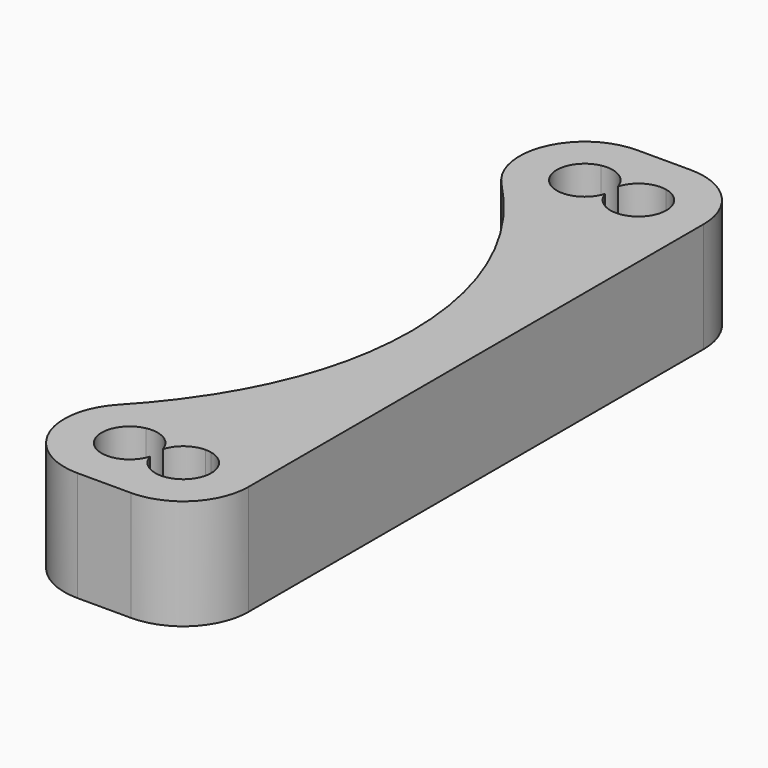
from build123d import *

# Parameters (mm, degrees)
F1_DEPTH = 23.6


with BuildPart() as f1:
    # F0 (on Top) → F1 (new body)
    with BuildSketch(Plane.XY):
        with BuildLine():
            ThreePointArc((-33.1300476876, 66.8774403692), (-29.6868850055, 64.7921543722), (-28.3365694268, 61))
            ThreePointArc((-28.3365694268, 61), (-29.6868850055, 57.2078456278), (-33.1300476876, 55.1225596308))
            ThreePointArc((-33.1300476876, 55.1225596308), (-33.6875488508, 54.042895786), (-34.3365694268, 53.0156402887))
            Line((-34.3365694268, 53.0156402887), (-34.3365694268, 47))
            ThreePointArc((-34.3365694268, 47), (-24.4370744902, 51.1005050634), (-20.3365694268, 61))
            ThreePointArc((-20.3365694268, 61), (-24.4370744902, 70.8994949366), (-34.3365694268, 75))
            ThreePointArc((-34.3365694268, 75), (-37.2771676859, 74.6876908892), (-40.0865694268, 73.7646974112))
            ThreePointArc((-40.0865694268, 73.7646974112), (-35.9867280033, 70.9489006394), (-33.1300476876, 66.8774403692))
        make_face()
        with BuildLine():
            ThreePointArc((-45.8365694268, 75), (-42.8959711677, 74.6876908892), (-40.0865694268, 73.7646974112))
            ThreePointArc((-40.0865694268, 73.7646974112), (-37.2771676859, 74.6876908892), (-34.3365694268, 75))
            Line((-34.3365694268, 75), (-45.8365694268, 75))
        make_face()
        with BuildLine():
            ThreePointArc((-47.0430911659, 66.8774403692), (-44.1864108503, 70.9489006394), (-40.0865694268, 73.7646974112))
            ThreePointArc((-40.0865694268, 73.7646974112), (-42.8959711677, 74.6876908892), (-45.8365694268, 75))
            ThreePointArc((-45.8365694268, 75), (-58.7268044704, 66.4627685766), (-55.8960509898, 51.2631200745))
            ThreePointArc((-55.8960509898, 51.2631200745), (-48.4699754944, 47.2499028191), (-40.0865694268, 48.2353025888))
            ThreePointArc((-40.0865694268, 48.2353025888), (-44.1864108503, 51.0510993606), (-47.0430911659, 55.1225596308))
            ThreePointArc((-47.0430911659, 55.1225596308), (-51.8365694268, 61), (-47.0430911659, 66.8774403692))
        make_face()
        with BuildLine():
            ThreePointArc((-20.3365694268, 61), (-24.4370744902, 51.1005050634), (-34.3365694268, 47))
            Line((-34.3365694268, 47), (-34.3365694268, 0.4321282686))
            add(Edge.make_bspline(
                [(-34.3365694268, 0.4321282686), (-34.3361365089, 0.2880770506), (-34.3361368633, 0.1440338578), (-34.3365694268, 0)],
                knots=[0.496094715, 0.496094715, 0.496094715, 0.496094715, 0.4996371995, 0.4996371995, 0.4996371995, 0.4996371995], degree=3))
            Line((-34.3365694268, 0), (-34.3365694268, -47))
            ThreePointArc((-34.3365694268, -47), (-24.4370744902, -51.1005050634), (-20.3365694268, -61))
            Line((-20.3365694268, -61), (-20.3365694268, 61))
        make_face()
        with BuildLine():
            Line((-34.3365694268, 0.4321282686), (-34.3365694268, 47))
            ThreePointArc((-34.3365694268, 47), (-37.2771676859, 47.3123091108), (-40.0865694268, 48.2353025888))
            ThreePointArc((-40.0865694268, 48.2353025888), (-48.4699754944, 47.2499028191), (-55.8960509898, 51.2631200745))
            add(Edge.make_bspline(
                [(-55.8960509898, 51.2631200745), (-40.9271633104, 35.7982841304), (-34.3895319866, 18.0551513004), (-34.3365694268, 0.4321282686)],
                knots=[0.0627121484, 0.0627121484, 0.0627121484, 0.0627121484, 0.496094715, 0.496094715, 0.496094715, 0.496094715], degree=3))
        make_face()
        with BuildLine():
            add(Edge.make_bspline(
                [(-34.3365694268, 0.4321282686), (-34.3361365089, 0.2880770506), (-34.3361368633, 0.1440338578), (-34.3365694268, 0)],
                knots=[0.496094715, 0.496094715, 0.496094715, 0.496094715, 0.4996371995, 0.4996371995, 0.4996371995, 0.4996371995], degree=3))
            Line((-34.3365694268, 0.4321282686), (-34.3365694268, 0))
        make_face()
        with BuildLine():
            ThreePointArc((-34.3365694268, -75), (-24.4370744902, -70.8994949366), (-20.3365694268, -61))
            ThreePointArc((-20.3365694268, -61), (-24.4370744902, -51.1005050634), (-34.3365694268, -47))
            Line((-34.3365694268, -47), (-34.3365694268, -53.0156402887))
            ThreePointArc((-34.3365694268, -53.0156402887), (-33.6875488508, -54.042895786), (-33.1300476876, -55.1225596308))
            ThreePointArc((-33.1300476876, -55.1225596308), (-29.6868850055, -57.2078456278), (-28.3365694268, -61))
            ThreePointArc((-28.3365694268, -61), (-29.6868850055, -64.7921543722), (-33.1300476876, -66.8774403692))
            ThreePointArc((-33.1300476876, -66.8774403692), (-35.9867280033, -70.9489006394), (-40.0865694268, -73.7646974112))
            ThreePointArc((-40.0865694268, -73.7646974112), (-37.2771676859, -74.6876908892), (-34.3365694268, -75))
        make_face()
        with BuildLine():
            Line((-34.3365694268, -47), (-34.3365694268, 0))
            add(Edge.make_bspline(
                [(-34.3365694268, 0), (-34.3900880153, -17.8204800119), (-41.0597288004, -35.4980627256), (-56.0312077554, -51.4047225497)],
                knots=[0.4996371995, 0.4996371995, 0.4996371995, 0.4996371995, 0.9379284167, 0.9379284167, 0.9379284167, 0.9379284167], degree=3))
            ThreePointArc((-56.0312077554, -51.4047225497), (-48.5660397399, -47.2686493086), (-40.0865694268, -48.2353025888))
            ThreePointArc((-40.0865694268, -48.2353025888), (-37.2771676859, -47.3123091108), (-34.3365694268, -47))
        make_face()
        with BuildLine():
            Line((-45.8365694268, -75), (-34.3365694268, -75))
            ThreePointArc((-34.3365694268, -75), (-37.2771676859, -74.6876908892), (-40.0865694268, -73.7646974112))
            ThreePointArc((-40.0865694268, -73.7646974112), (-42.8959711677, -74.6876908892), (-45.8365694268, -75))
        make_face()
        with BuildLine():
            ThreePointArc((-40.0865694268, -48.2353025888), (-48.5660397399, -47.2686493086), (-56.0312077554, -51.4047225497))
            ThreePointArc((-56.0312077554, -51.4047225497), (-58.6882985771, -66.5527522768), (-45.8365694268, -75))
            ThreePointArc((-45.8365694268, -75), (-42.8959711677, -74.6876908892), (-40.0865694268, -73.7646974112))
            ThreePointArc((-40.0865694268, -73.7646974112), (-44.1864108503, -70.9489006394), (-47.0430911659, -66.8774403692))
            ThreePointArc((-47.0430911659, -66.8774403692), (-51.8365694268, -61), (-47.0430911659, -55.1225596308))
            ThreePointArc((-47.0430911659, -55.1225596308), (-44.1864108503, -51.0510993606), (-40.0865694268, -48.2353025888))
        make_face()
        with BuildLine():
            ThreePointArc((-33.1300476876, 66.8774403692), (-29.6868850055, 64.7921543722), (-28.3365694268, 61))
            ThreePointArc((-28.3365694268, 61), (-29.6868850055, 57.2078456278), (-33.1300476876, 55.1225596308))
            ThreePointArc((-33.1300476876, 55.1225596308), (-33.6875488508, 54.042895786), (-34.3365694268, 53.0156402887))
            Line((-34.3365694268, 53.0156402887), (-34.3365694268, 47))
            ThreePointArc((-34.3365694268, 47), (-24.4370744902, 51.1005050634), (-20.3365694268, 61))
            ThreePointArc((-20.3365694268, 61), (-24.4370744902, 70.8994949366), (-34.3365694268, 75))
            ThreePointArc((-34.3365694268, 75), (-37.2771676859, 74.6876908892), (-40.0865694268, 73.7646974112))
            ThreePointArc((-40.0865694268, 73.7646974112), (-35.9867280033, 70.9489006394), (-33.1300476876, 66.8774403692))
        make_face()
        with BuildLine():
            ThreePointArc((-34.3365694268, -75), (-24.4370744902, -70.8994949366), (-20.3365694268, -61))
            ThreePointArc((-20.3365694268, -61), (-24.4370744902, -51.1005050634), (-34.3365694268, -47))
            Line((-34.3365694268, -47), (-34.3365694268, -53.0156402887))
            ThreePointArc((-34.3365694268, -53.0156402887), (-33.6875488508, -54.042895786), (-33.1300476876, -55.1225596308))
            ThreePointArc((-33.1300476876, -55.1225596308), (-29.6868850055, -57.2078456278), (-28.3365694268, -61))
            ThreePointArc((-28.3365694268, -61), (-29.6868850055, -64.7921543722), (-33.1300476876, -66.8774403692))
            ThreePointArc((-33.1300476876, -66.8774403692), (-35.9867280033, -70.9489006394), (-40.0865694268, -73.7646974112))
            ThreePointArc((-40.0865694268, -73.7646974112), (-37.2771676859, -74.6876908892), (-34.3365694268, -75))
        make_face()
        with BuildLine():
            ThreePointArc((-33.1300476876, -55.1225596308), (-33.6875488508, -54.042895786), (-34.3365694268, -53.0156402887))
            Line((-34.3365694268, -53.0156402887), (-34.3365694268, -55))
            ThreePointArc((-34.3365694268, -55), (-33.730204114, -55.0307185435), (-33.1300476876, -55.1225596308))
        make_face()
        with BuildLine():
            ThreePointArc((-40.0865694268, 62.7139136501), (-37.4178901439, 66.1483456215), (-33.1300476876, 66.8774403692))
            ThreePointArc((-33.1300476876, 66.8774403692), (-35.9867280033, 70.9489006394), (-40.0865694268, 73.7646974112))
            ThreePointArc((-40.0865694268, 73.7646974112), (-44.1864108503, 70.9489006394), (-47.0430911659, 66.8774403692))
            ThreePointArc((-47.0430911659, 66.8774403692), (-42.7552487096, 66.1483456215), (-40.0865694268, 62.7139136501))
        make_face()
        with BuildLine():
            Line((-34.3365694268, 53.0156402887), (-34.3365694268, 55))
            ThreePointArc((-34.3365694268, 55), (-37.922410897, 56.1894136584), (-40.0865694268, 59.2860863499))
            ThreePointArc((-40.0865694268, 59.2860863499), (-42.7552487096, 55.8516543785), (-47.0430911659, 55.1225596308))
            ThreePointArc((-47.0430911659, 55.1225596308), (-44.1864108503, 51.0510993606), (-40.0865694268, 48.2353025888))
            ThreePointArc((-40.0865694268, 48.2353025888), (-36.886511766, 50.2344778172), (-34.3365694268, 53.0156402887))
        make_face()
        with BuildLine():
            Line((-34.3365694268, 47), (-34.3365694268, 53.0156402887))
            ThreePointArc((-34.3365694268, 53.0156402887), (-36.886511766, 50.2344778172), (-40.0865694268, 48.2353025888))
            ThreePointArc((-40.0865694268, 48.2353025888), (-37.2771676859, 47.3123091108), (-34.3365694268, 47))
        make_face()
        with BuildLine():
            ThreePointArc((-47.0430911659, -66.8774403692), (-44.1864108503, -70.9489006394), (-40.0865694268, -73.7646974112))
            ThreePointArc((-40.0865694268, -73.7646974112), (-35.9867280033, -70.9489006394), (-33.1300476876, -66.8774403692))
            ThreePointArc((-33.1300476876, -66.8774403692), (-37.4178901439, -66.1483456215), (-40.0865694268, -62.7139136501))
            ThreePointArc((-40.0865694268, -62.7139136501), (-42.7552487096, -66.1483456215), (-47.0430911659, -66.8774403692))
        make_face()
        with BuildLine():
            Line((-34.3365694268, -53.0156402887), (-34.3365694268, -47))
            ThreePointArc((-34.3365694268, -47), (-37.2771676859, -47.3123091108), (-40.0865694268, -48.2353025888))
            ThreePointArc((-40.0865694268, -48.2353025888), (-36.886511766, -50.2344778172), (-34.3365694268, -53.0156402887))
        make_face()
        with BuildLine():
            Line((-34.3365694268, -55), (-34.3365694268, -53.0156402887))
            ThreePointArc((-34.3365694268, -53.0156402887), (-36.886511766, -50.2344778172), (-40.0865694268, -48.2353025888))
            ThreePointArc((-40.0865694268, -48.2353025888), (-44.1864108503, -51.0510993606), (-47.0430911659, -55.1225596308))
            ThreePointArc((-47.0430911659, -55.1225596308), (-42.7552487096, -55.8516543785), (-40.0865694268, -59.2860863499))
            ThreePointArc((-40.0865694268, -59.2860863499), (-37.922410897, -56.1894136584), (-34.3365694268, -55))
        make_face()
        with BuildLine():
            ThreePointArc((-34.3365694268, 53.0156402887), (-33.6875488508, 54.042895786), (-33.1300476876, 55.1225596308))
            ThreePointArc((-33.1300476876, 55.1225596308), (-33.730204114, 55.0307185435), (-34.3365694268, 55))
            Line((-34.3365694268, 55), (-34.3365694268, 53.0156402887))
        make_face()
    extrude(amount=F1_DEPTH)


solid = f1.part
